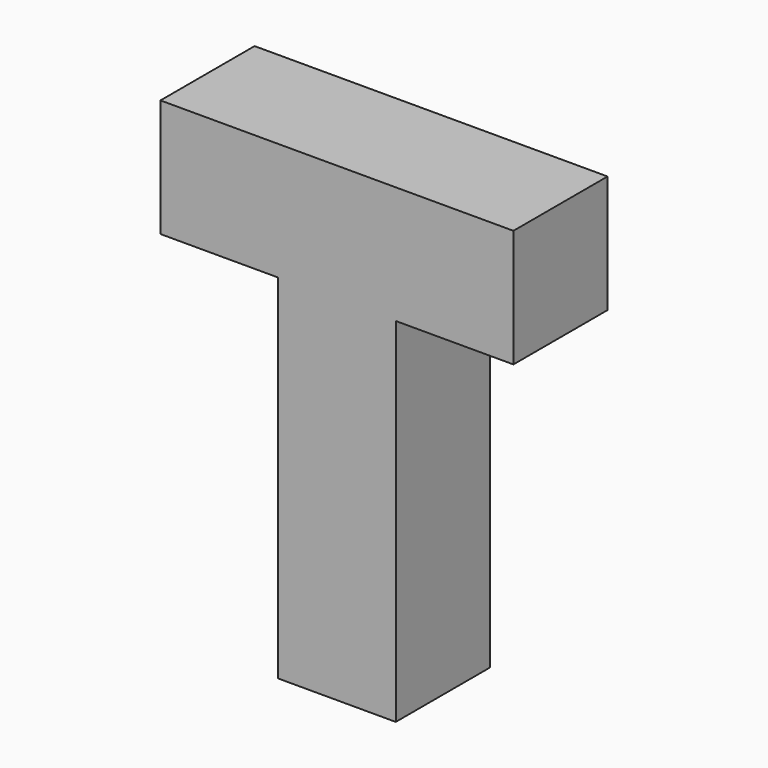
from build123d import *

# Parameters (mm, degrees)
BOX097_W     = 3
BOX097_H     = 1
BOX097_DEPTH = 1
BOX098_W     = 1
BOX098_H     = 1
BOX098_DEPTH = 3


with BuildPart() as box097:
    # Box097 → Box097 (new body)
    with BuildSketch(Plane(origin=(20, 0, 6), x_dir=(1, 0, 0), z_dir=(0, 0, 1))):
        with Locations((1.5, 0.5)):
            Rectangle(BOX097_W, BOX097_H)
    extrude(amount=BOX097_DEPTH)


with BuildPart() as fusion038:
    # Box098 → Box098 (new body)
    with BuildSketch(Plane(origin=(21, 0, 3), x_dir=(1, 0, 0), z_dir=(0, 0, 1))):
        with Locations((0.5, 0.5)):
            Rectangle(BOX098_W, BOX098_H)
    extrude(amount=BOX098_DEPTH)

    # Fusion038: union Box097
    add(box097.part)


with BuildPart() as fusion038_1:
    # Fusion038 placement: moved
    add(fusion038.part.moved(Location((-4, 24, 0))))


solid = fusion038_1.part
